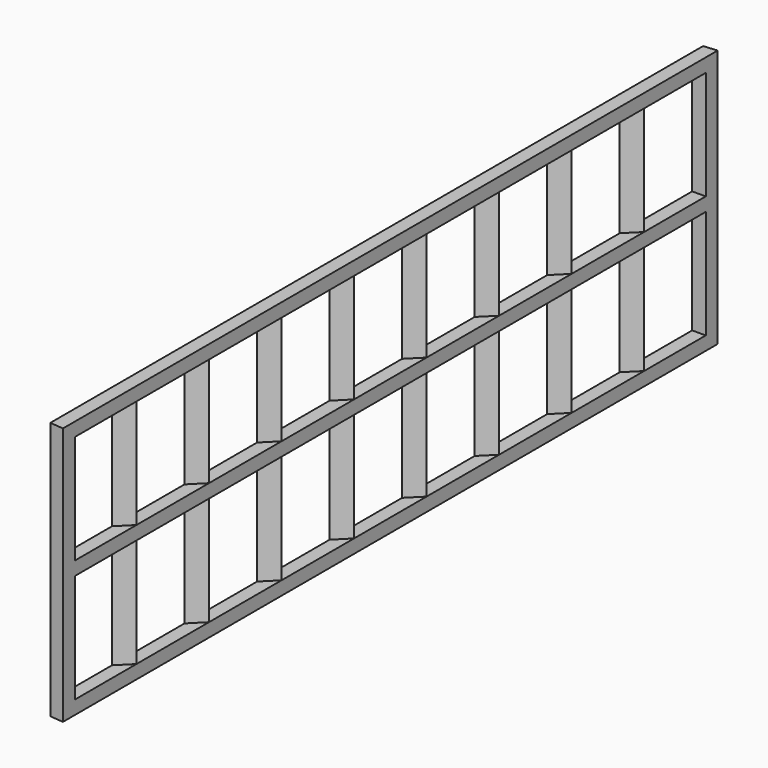
from build123d import *

# Parameters (mm, degrees)
F0_W     = 25.4
F0_H     = 25.4
F0_W_2   = 21.1836
F0_H_2   = 21.1836
F1_DEPTH = 762
F2_W     = 25.4
F2_H     = 25.4
F2_W_2   = 21.1836
F2_H_2   = 21.1836
F3_DEPTH = 482.6
F5_DEPTH = 482.6


with BuildPart() as f1:
    # F0 (on Front) → F1 (new body, symmetric)
    with BuildSketch(Plane.XZ):
        with Locations((0, 232.682143)):
            Rectangle(F0_W, F0_H)
        with Locations((0, 232.682143)):
            Rectangle(F0_W_2, F0_H_2, mode=Mode.SUBTRACT)
        with Locations((0, 4.082143)):
            Rectangle(F0_W, F0_H)
        with Locations((0, 4.082143)):
            Rectangle(F0_W_2, F0_H_2, mode=Mode.SUBTRACT)
        with Locations((0, -224.517857)):
            Rectangle(F0_W, F0_H)
        with Locations((0, -224.517857)):
            Rectangle(F0_W_2, F0_H_2, mode=Mode.SUBTRACT)
    extrude(amount=F1_DEPTH, both=True)

    # F2 (on face) → F3 (join)
    with BuildSketch(Plane.XY.offset(245.382143)):
        with Locations((0, 749.3)):
            Rectangle(F2_W, F2_H)
        with Locations((0, 749.3)):
            Rectangle(F2_W_2, F2_H_2, mode=Mode.SUBTRACT)
        with Locations((0, -749.3)):
            Rectangle(F2_W, F2_H)
        with Locations((0, -749.3)):
            Rectangle(F2_W_2, F2_H_2, mode=Mode.SUBTRACT)
    extrude(amount=-F3_DEPTH)

    # F4 (on face) → F5 (join)
    with BuildSketch(Plane.XY.offset(245.382143)):
        Polygon((12.7, 764.38125), (-12.7, 762), (12.7, 762), align=None)
        Polygon((12.7, 592.666667), (-12.700024, 618.066667), (-12.70001, 615.08521), (9.718555, 592.666665), (-12.69999, 570.2481), (-12.7, 567.266643), align=None)
        Polygon((12.7, 423.333333), (-12.700024, 448.733333), (-12.70001, 445.751876), (9.718555, 423.333332), (-12.69999, 400.914767), (-12.7, 397.93331), align=None)
        Polygon((12.7, 254), (-12.700024, 279.4), (-12.70001, 276.418543), (9.718555, 253.999999), (-12.69999, 231.581433), (-12.7, 228.599976), align=None)
        Polygon((12.7, 84.666667), (-12.700024, 110.066667), (-12.70001, 107.08521), (9.718555, 84.666665), (-12.69999, 62.2481), (-12.7, 59.266643), align=None)
        Polygon((-12.70001, -615.08521), (-12.700024, -618.066667), (12.7, -592.666667), (-12.7, -567.266643), (-12.69999, -570.2481), (9.718555, -592.666665), align=None)
        Polygon((12.7, -254), (-12.7, -228.599976), (-12.69999, -231.581433), (9.718555, -253.999999), (-12.70001, -276.418543), (-12.700024, -279.4), align=None)
        Polygon((-12.7, -762), (12.7, -764.38125), (12.7, -762), align=None)
        Polygon((12.7, -423.333333), (-12.7, -397.93331), (-12.69999, -400.914767), (9.718555, -423.333332), (-12.70001, -445.751876), (-12.700024, -448.733333), align=None)
        Polygon((9.718555, -84.666665), (-12.70001, -107.08521), (-12.700024, -110.066667), (12.7, -84.666667), (-12.7, -59.266643), (-12.69999, -62.2481), align=None)
    extrude(amount=-F5_DEPTH)


solid = f1.part
